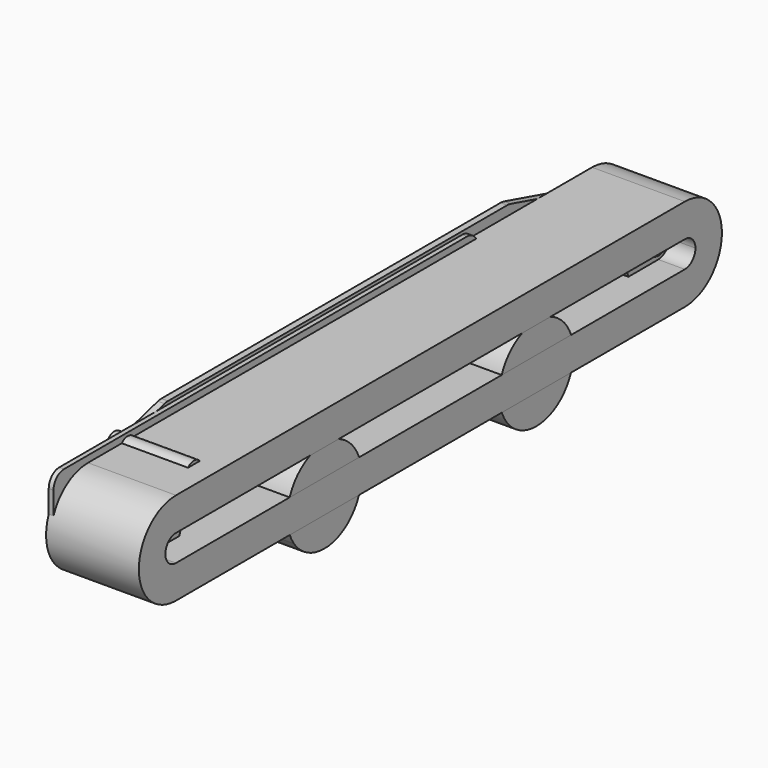
from build123d import *

# Parameters (mm, degrees)
F0_R           = 19.05
F0_R_2         = 6.35
F1_DEPTH       = 31.75
F2_START       = 12.7
F2_DEPTH       = 15.875
F3_R           = 4.7625
F3_R_2         = 2.6162
F4_DEPTH       = 3.175
F5_DEPTH       = 44.45
F7_DEPTH       = 44.45
F8_R           = 2.286
F8_R_2         = 2.032
F8_R_3         = 4.7625
F9_DEPTH       = 2.286
F10_R          = 4.7625
F10_R_2        = 2.286
F11_DEPTH      = 31.75
F10_R_3        = 2.032
F12_DEPTH      = 38.1
F12_DEPTH_BACK = 2.286
F13_START      = -2.286
F13_DEPTH      = 4.064
F14_R          = 4.8895
F15_DEPTH      = 12.7
F16_R          = 4.7625
F16_R_2        = 2.1082
F17_DEPTH      = 12.7
F18_R          = 4.826
F18_R_2        = 4.699
F18_R_3        = 2.413
F19_DEPTH      = 12.7
F20_DEPTH      = 12.7


with BuildPart() as f1:
    # F0 (on Right) → F1 (new body)
    with BuildSketch(Plane.YZ):
        Circle(F0_R)
        Circle(F0_R_2, mode=Mode.SUBTRACT)
        Circle(F0_R_2)
    extrude(amount=F1_DEPTH)


with BuildPart() as f1b:
    # F0 (on Right) → F1, piece 2 (new body)
    with BuildSketch(Plane.YZ):
        with Locations((304.8, 0)):
            Circle(F0_R)
        with Locations((304.8, 0)):
            Circle(F0_R_2, mode=Mode.SUBTRACT)
        with Locations((304.8, 0)):
            Circle(F0_R_2)
    extrude(amount=F1_DEPTH)


with BuildPart() as f2_tool:
    # F0 (on Right) → F2 (new body)
    with BuildSketch(Plane.YZ.offset(F2_START)):
        Circle(F0_R)
        Circle(F0_R_2, mode=Mode.SUBTRACT)
        with Locations((304.8, 0)):
            Circle(F0_R)
        with Locations((304.8, 0)):
            Circle(F0_R_2, mode=Mode.SUBTRACT)
    extrude(amount=F2_DEPTH)


with BuildPart() as f1_1:
    add(f1.part)

    # F2: cut by f2_tool
    add(f2_tool.part, mode=Mode.SUBTRACT)

    # F14 (on face) → F15 (cut)
    with BuildSketch(Plane.YZ.offset(31.75)):
        Circle(F14_R)
    extrude(amount=-F15_DEPTH, mode=Mode.SUBTRACT)

    # F16 (on face) → F17 (join)
    with BuildSketch(Plane.YZ.offset(19.05)):
        Circle(F16_R)
        Circle(F16_R_2, mode=Mode.SUBTRACT)
    extrude(amount=F17_DEPTH)


with BuildPart() as f1b_1:
    add(f1b.part)

    # F2: cut by f2_tool
    add(f2_tool.part, mode=Mode.SUBTRACT)

    # F18 (on face) → F19 (cut)
    with BuildSketch(Plane.YZ.offset(31.75)):
        with Locations((304.8, 0)):
            Circle(F18_R)
        with Locations((304.8, 0)):
            Circle(F18_R_2, mode=Mode.SUBTRACT)
        with Locations((304.8, 0)):
            Circle(F18_R_2)
        with Locations((304.8, 0)):
            Circle(F18_R_3, mode=Mode.SUBTRACT)
        with Locations((304.8, 0)):
            Circle(F18_R_3)
    extrude(amount=-F19_DEPTH, mode=Mode.SUBTRACT)


with BuildPart() as f4:
    # F3 (on Right) → F4 (new body)
    with BuildSketch(Plane.YZ):
        with BuildLine():
            ThreePointArc((-3.3780835942, -12.2424895847), (7.6937747027, -10.1042481573), (12.7, 0))
            ThreePointArc((12.7, 0), (7.6937747027, 10.1042481573), (-3.3780835942, 12.2424895847))
            ThreePointArc((-3.3780835942, 12.2424895847), (-12.7, 0), (-3.3780835942, -12.2424895847))
        make_face()
        Circle(F3_R, mode=Mode.SUBTRACT)
        with BuildLine():
            ThreePointArc((-3.3780835942, 12.2424895847), (7.6937747027, 10.1042481573), (12.7, 0))
            ThreePointArc((12.7, 0), (7.6937747027, -10.1042481573), (-3.3780835942, -12.2424895847))
            Line((-3.3780835942, -12.2424895847), (48.7123443388, -26.6158585633))
            ThreePointArc((48.7123443388, -26.6158585633), (46.0452472337, -12.8055746388), (58.6486, -19.05))
            ThreePointArc((58.6486, -19.05), (56.3497982828, -24.5997982828), (50.8, -26.8986))
            Line((50.8, -26.8986), (70.6610135972, -26.8986))
            ThreePointArc((70.6610135972, -26.8986), (82.2445829508, 7.0064948807), (111.125, -14.1986))
            ThreePointArc((111.125, -14.1986), (110.7293167176, -18.3737115723), (109.5563559828, -22.4001597609))
            Line((109.5563559828, -22.4001597609), (149.5011387685, -13.0352677522))
            ThreePointArc((149.5011387685, -13.0352677522), (152.4, -12.7), (155.2988612315, -13.0352677522))
            Line((155.2988612315, -13.0352677522), (195.2436440172, -22.4001597609))
            ThreePointArc((195.2436440172, -22.4001597609), (211.7248884277, 7.6307167176), (238.125, -14.1986))
            ThreePointArc((238.125, -14.1986), (237.1050948807, -20.8540170492), (234.1389864028, -26.8986))
            Line((234.1389864028, -26.8986), (254, -26.8986))
            ThreePointArc((254, -26.8986), (248.4502017172, -13.5002017172), (261.8486, -19.05))
            ThreePointArc((261.8486, -19.05), (260.2444253612, -23.8047527663), (256.0876556612, -26.6158585633))
            Line((256.0876556612, -26.6158585633), (308.1780835942, -12.2424895847))
            ThreePointArc((308.1780835942, -12.2424895847), (292.1, 0), (308.1780835942, 12.2424895847))
            Line((308.1780835942, 12.2424895847), (256.0876556612, 26.6158585633))
            ThreePointArc((256.0876556612, 26.6158585633), (260.2444253612, 23.8047527663), (261.8486, 19.05))
            ThreePointArc((261.8486, 19.05), (248.4502017172, 13.5002017172), (254, 26.8986))
            Line((254, 26.8986), (50.8, 26.8986))
            ThreePointArc((50.8, 26.8986), (56.3497982828, 24.5997982828), (58.6486, 19.05))
            ThreePointArc((58.6486, 19.05), (46.0452472337, 12.8055746388), (48.7123443388, 26.6158585633))
            Line((48.7123443388, 26.6158585633), (-3.3780835942, 12.2424895847))
        make_face()
        with BuildLine():
            ThreePointArc((-3.3780835942, 12.2424895847), (7.6937747027, 10.1042481573), (12.7, 0))
            ThreePointArc((12.7, 0), (7.6937747027, -10.1042481573), (-3.3780835942, -12.2424895847))
            Line((-3.3780835942, -12.2424895847), (48.7123443388, -26.6158585633))
            ThreePointArc((48.7123443388, -26.6158585633), (46.0452472337, -12.8055746388), (58.6486, -19.05))
            ThreePointArc((58.6486, -19.05), (56.3497982828, -24.5997982828), (50.8, -26.8986))
            Line((50.8, -26.8986), (70.6610135972, -26.8986))
            ThreePointArc((70.6610135972, -26.8986), (82.2445829508, 7.0064948807), (111.125, -14.1986))
            ThreePointArc((111.125, -14.1986), (110.7293167176, -18.3737115723), (109.5563559828, -22.4001597609))
            Line((109.5563559828, -22.4001597609), (149.5011387685, -13.0352677522))
            ThreePointArc((149.5011387685, -13.0352677522), (152.4, -12.7), (155.2988612315, -13.0352677522))
            Line((155.2988612315, -13.0352677522), (195.2436440172, -22.4001597609))
            ThreePointArc((195.2436440172, -22.4001597609), (211.7248884277, 7.6307167176), (238.125, -14.1986))
            ThreePointArc((238.125, -14.1986), (237.1050948807, -20.8540170492), (234.1389864028, -26.8986))
            Line((234.1389864028, -26.8986), (254, -26.8986))
            ThreePointArc((254, -26.8986), (248.4502017172, -13.5002017172), (261.8486, -19.05))
            ThreePointArc((261.8486, -19.05), (260.2444253612, -23.8047527663), (256.0876556612, -26.6158585633))
            Line((256.0876556612, -26.6158585633), (308.1780835942, -12.2424895847))
            ThreePointArc((308.1780835942, -12.2424895847), (292.1, 0), (308.1780835942, 12.2424895847))
            Line((308.1780835942, 12.2424895847), (256.0876556612, 26.6158585633))
            ThreePointArc((256.0876556612, 26.6158585633), (260.2444253612, 23.8047527663), (261.8486, 19.05))
            ThreePointArc((261.8486, 19.05), (248.4502017172, 13.5002017172), (254, 26.8986))
            Line((254, 26.8986), (50.8, 26.8986))
            ThreePointArc((50.8, 26.8986), (56.3497982828, 24.5997982828), (58.6486, 19.05))
            ThreePointArc((58.6486, 19.05), (46.0452472337, 12.8055746388), (48.7123443388, 26.6158585633))
            Line((48.7123443388, 26.6158585633), (-3.3780835942, 12.2424895847))
        make_face()
        with BuildLine():
            ThreePointArc((317.5, 0), (314.9042481573, 7.6937747027), (308.1780835942, 12.2424895847))
            ThreePointArc((308.1780835942, 12.2424895847), (292.1, 0), (308.1780835942, -12.2424895847))
            ThreePointArc((308.1780835942, -12.2424895847), (314.9042481573, -7.6937747027), (317.5, 0))
        make_face()
        with Locations((304.8, 0)):
            Circle(F3_R, mode=Mode.SUBTRACT)
        with BuildLine():
            ThreePointArc((-3.3780835942, 12.2424895847), (7.6937747027, 10.1042481573), (12.7, 0))
            ThreePointArc((12.7, 0), (7.6937747027, -10.1042481573), (-3.3780835942, -12.2424895847))
            Line((-3.3780835942, -12.2424895847), (48.7123443388, -26.6158585633))
            ThreePointArc((48.7123443388, -26.6158585633), (46.0452472337, -12.8055746388), (58.6486, -19.05))
            ThreePointArc((58.6486, -19.05), (56.3497982828, -24.5997982828), (50.8, -26.8986))
            Line((50.8, -26.8986), (70.6610135972, -26.8986))
            ThreePointArc((70.6610135972, -26.8986), (82.2445829508, 7.0064948807), (111.125, -14.1986))
            ThreePointArc((111.125, -14.1986), (110.7293167176, -18.3737115723), (109.5563559828, -22.4001597609))
            Line((109.5563559828, -22.4001597609), (149.5011387685, -13.0352677522))
            ThreePointArc((149.5011387685, -13.0352677522), (152.4, -12.7), (155.2988612315, -13.0352677522))
            Line((155.2988612315, -13.0352677522), (195.2436440172, -22.4001597609))
            ThreePointArc((195.2436440172, -22.4001597609), (211.7248884277, 7.6307167176), (238.125, -14.1986))
            ThreePointArc((238.125, -14.1986), (237.1050948807, -20.8540170492), (234.1389864028, -26.8986))
            Line((234.1389864028, -26.8986), (254, -26.8986))
            ThreePointArc((254, -26.8986), (248.4502017172, -13.5002017172), (261.8486, -19.05))
            ThreePointArc((261.8486, -19.05), (260.2444253612, -23.8047527663), (256.0876556612, -26.6158585633))
            Line((256.0876556612, -26.6158585633), (308.1780835942, -12.2424895847))
            ThreePointArc((308.1780835942, -12.2424895847), (292.1, 0), (308.1780835942, 12.2424895847))
            Line((308.1780835942, 12.2424895847), (256.0876556612, 26.6158585633))
            ThreePointArc((256.0876556612, 26.6158585633), (260.2444253612, 23.8047527663), (261.8486, 19.05))
            ThreePointArc((261.8486, 19.05), (248.4502017172, 13.5002017172), (254, 26.8986))
            Line((254, 26.8986), (50.8, 26.8986))
            ThreePointArc((50.8, 26.8986), (56.3497982828, 24.5997982828), (58.6486, 19.05))
            ThreePointArc((58.6486, 19.05), (46.0452472337, 12.8055746388), (48.7123443388, 26.6158585633))
            Line((48.7123443388, 26.6158585633), (-3.3780835942, 12.2424895847))
        make_face()
        with BuildLine():
            ThreePointArc((-3.3780835942, 12.2424895847), (7.6937747027, 10.1042481573), (12.7, 0))
            ThreePointArc((12.7, 0), (7.6937747027, -10.1042481573), (-3.3780835942, -12.2424895847))
            Line((-3.3780835942, -12.2424895847), (48.7123443388, -26.6158585633))
            ThreePointArc((48.7123443388, -26.6158585633), (46.0452472337, -12.8055746388), (58.6486, -19.05))
            ThreePointArc((58.6486, -19.05), (56.3497982828, -24.5997982828), (50.8, -26.8986))
            Line((50.8, -26.8986), (70.6610135972, -26.8986))
            ThreePointArc((70.6610135972, -26.8986), (82.2445829508, 7.0064948807), (111.125, -14.1986))
            ThreePointArc((111.125, -14.1986), (110.7293167176, -18.3737115723), (109.5563559828, -22.4001597609))
            Line((109.5563559828, -22.4001597609), (149.5011387685, -13.0352677522))
            ThreePointArc((149.5011387685, -13.0352677522), (152.4, -12.7), (155.2988612315, -13.0352677522))
            Line((155.2988612315, -13.0352677522), (195.2436440172, -22.4001597609))
            ThreePointArc((195.2436440172, -22.4001597609), (211.7248884277, 7.6307167176), (238.125, -14.1986))
            ThreePointArc((238.125, -14.1986), (237.1050948807, -20.8540170492), (234.1389864028, -26.8986))
            Line((234.1389864028, -26.8986), (254, -26.8986))
            ThreePointArc((254, -26.8986), (248.4502017172, -13.5002017172), (261.8486, -19.05))
            ThreePointArc((261.8486, -19.05), (260.2444253612, -23.8047527663), (256.0876556612, -26.6158585633))
            Line((256.0876556612, -26.6158585633), (308.1780835942, -12.2424895847))
            ThreePointArc((308.1780835942, -12.2424895847), (292.1, 0), (308.1780835942, 12.2424895847))
            Line((308.1780835942, 12.2424895847), (256.0876556612, 26.6158585633))
            ThreePointArc((256.0876556612, 26.6158585633), (260.2444253612, 23.8047527663), (261.8486, 19.05))
            ThreePointArc((261.8486, 19.05), (248.4502017172, 13.5002017172), (254, 26.8986))
            Line((254, 26.8986), (50.8, 26.8986))
            ThreePointArc((50.8, 26.8986), (56.3497982828, 24.5997982828), (58.6486, 19.05))
            ThreePointArc((58.6486, 19.05), (46.0452472337, 12.8055746388), (48.7123443388, 26.6158585633))
            Line((48.7123443388, 26.6158585633), (-3.3780835942, 12.2424895847))
        make_face()
        with BuildLine():
            ThreePointArc((50.8, 26.8986), (49.7466424064, 26.8275934414), (48.7123443388, 26.6158585633))
            ThreePointArc((48.7123443388, 26.6158585633), (46.0452472337, 12.8055746388), (58.6486, 19.05))
            ThreePointArc((58.6486, 19.05), (56.3497982828, 24.5997982828), (50.8, 26.8986))
        make_face()
        with Locations((50.8, 19.05)):
            Circle(F3_R_2, mode=Mode.SUBTRACT)
        with BuildLine():
            ThreePointArc((58.6486, -19.05), (46.0452472337, -12.8055746388), (48.7123443388, -26.6158585633))
            ThreePointArc((48.7123443388, -26.6158585633), (49.7466424064, -26.8275934414), (50.8, -26.8986))
            ThreePointArc((50.8, -26.8986), (56.3497982828, -24.5997982828), (58.6486, -19.05))
        make_face()
        with Locations((50.8, -19.05)):
            Circle(F3_R_2, mode=Mode.SUBTRACT)
        with BuildLine():
            ThreePointArc((101.6, -14.1986), (79.9197438789, -5.2183438789), (88.9, -26.8986))
            ThreePointArc((88.9, -26.8986), (90.3590922611, -26.8145046356), (91.7988612315, -26.5633322478))
            ThreePointArc((91.7988612315, -26.5633322478), (98.8525257508, -22.0876576864), (101.6, -14.1986))
        make_face()
        with Locations((88.9, -14.1986)):
            Circle(F3_R, mode=Mode.SUBTRACT)
        with BuildLine():
            ThreePointArc((111.125, -14.1986), (82.2445829508, 7.0064948807), (70.6610135972, -26.8986))
            Line((70.6610135972, -26.8986), (88.9, -26.8986))
            ThreePointArc((88.9, -26.8986), (79.9197438789, -5.2183438789), (101.6, -14.1986))
            ThreePointArc((101.6, -14.1986), (98.8525257508, -22.0876576864), (91.7988612315, -26.5633322478))
            Line((91.7988612315, -26.5633322478), (109.5563559828, -22.4001597609))
            ThreePointArc((109.5563559828, -22.4001597609), (110.7293167176, -18.3737115723), (111.125, -14.1986))
        make_face()
        with BuildLine():
            ThreePointArc((254, -26.8986), (255.0533575936, -26.8275934414), (256.0876556612, -26.6158585633))
            ThreePointArc((256.0876556612, -26.6158585633), (260.2444253612, -23.8047527663), (261.8486, -19.05))
            ThreePointArc((261.8486, -19.05), (248.4502017172, -13.5002017172), (254, -26.8986))
        make_face()
        with Locations((254, -19.05)):
            Circle(F3_R_2, mode=Mode.SUBTRACT)
        with BuildLine():
            ThreePointArc((256.0876556612, 26.6158585633), (255.0533575936, 26.8275934414), (254, 26.8986))
            ThreePointArc((254, 26.8986), (248.4502017172, 13.5002017172), (261.8486, 19.05))
            ThreePointArc((261.8486, 19.05), (260.2444253612, 23.8047527663), (256.0876556612, 26.6158585633))
        make_face()
        with Locations((254, 19.05)):
            Circle(F3_R_2, mode=Mode.SUBTRACT)
        with BuildLine():
            ThreePointArc((228.6, -14.1986), (208.0109423136, -4.2460742492), (213.0011387685, -26.5633322478))
            ThreePointArc((213.0011387685, -26.5633322478), (214.4409077389, -26.8145046356), (215.9, -26.8986))
            ThreePointArc((215.9, -26.8986), (224.8802561211, -23.1788561211), (228.6, -14.1986))
        make_face()
        with Locations((215.9, -14.1986)):
            Circle(F3_R, mode=Mode.SUBTRACT)
        with BuildLine():
            ThreePointArc((238.125, -14.1986), (211.7248884277, 7.6307167176), (195.2436440172, -22.4001597609))
            Line((195.2436440172, -22.4001597609), (213.0011387685, -26.5633322478))
            ThreePointArc((213.0011387685, -26.5633322478), (208.0109423136, -4.2460742492), (228.6, -14.1986))
            ThreePointArc((228.6, -14.1986), (224.8802561211, -23.1788561211), (215.9, -26.8986))
            Line((215.9, -26.8986), (234.1389864028, -26.8986))
            ThreePointArc((234.1389864028, -26.8986), (237.1050948807, -20.8540170492), (238.125, -14.1986))
        make_face()
    extrude(amount=-F4_DEPTH)


with BuildPart() as f5:
    # F3 (on Right) → F5 (new body)
    with BuildSketch(Plane.YZ):
        with BuildLine():
            Line((88.9, -26.8986), (70.6610135972, -26.8986))
            ThreePointArc((70.6610135972, -26.8986), (91.4534114568, -36.2764331122), (109.5563559828, -22.4001597609))
            Line((109.5563559828, -22.4001597609), (91.7988612315, -26.5633322478))
            ThreePointArc((91.7988612315, -26.5633322478), (90.3590922611, -26.8145046356), (88.9, -26.8986))
        make_face()
        with BuildLine():
            ThreePointArc((111.125, -14.1986), (82.2445829508, 7.0064948807), (70.6610135972, -26.8986))
            Line((70.6610135972, -26.8986), (88.9, -26.8986))
            ThreePointArc((88.9, -26.8986), (79.9197438789, -5.2183438789), (101.6, -14.1986))
            ThreePointArc((101.6, -14.1986), (98.8525257508, -22.0876576864), (91.7988612315, -26.5633322478))
            Line((91.7988612315, -26.5633322478), (109.5563559828, -22.4001597609))
            ThreePointArc((109.5563559828, -22.4001597609), (110.7293167176, -18.3737115723), (111.125, -14.1986))
        make_face()
        with BuildLine():
            ThreePointArc((101.6, -14.1986), (79.9197438789, -5.2183438789), (88.9, -26.8986))
            ThreePointArc((88.9, -26.8986), (90.3590922611, -26.8145046356), (91.7988612315, -26.5633322478))
            ThreePointArc((91.7988612315, -26.5633322478), (98.8525257508, -22.0876576864), (101.6, -14.1986))
        make_face()
        with Locations((88.9, -14.1986)):
            Circle(F3_R, mode=Mode.SUBTRACT)
    extrude(amount=F5_DEPTH)


with BuildPart() as f5b:
    # F3 (on Right) → F5, piece 2 (new body)
    with BuildSketch(Plane.YZ):
        with BuildLine():
            ThreePointArc((238.125, -14.1986), (211.7248884277, 7.6307167176), (195.2436440172, -22.4001597609))
            Line((195.2436440172, -22.4001597609), (213.0011387685, -26.5633322478))
            ThreePointArc((213.0011387685, -26.5633322478), (208.0109423136, -4.2460742492), (228.6, -14.1986))
            ThreePointArc((228.6, -14.1986), (224.8802561211, -23.1788561211), (215.9, -26.8986))
            Line((215.9, -26.8986), (234.1389864028, -26.8986))
            ThreePointArc((234.1389864028, -26.8986), (237.1050948807, -20.8540170492), (238.125, -14.1986))
        make_face()
        with BuildLine():
            ThreePointArc((228.6, -14.1986), (208.0109423136, -4.2460742492), (213.0011387685, -26.5633322478))
            ThreePointArc((213.0011387685, -26.5633322478), (214.4409077389, -26.8145046356), (215.9, -26.8986))
            ThreePointArc((215.9, -26.8986), (224.8802561211, -23.1788561211), (228.6, -14.1986))
        make_face()
        with Locations((215.9, -14.1986)):
            Circle(F3_R, mode=Mode.SUBTRACT)
        with BuildLine():
            Line((213.0011387685, -26.5633322478), (195.2436440172, -22.4001597609))
            ThreePointArc((195.2436440172, -22.4001597609), (213.3465885432, -36.2764331122), (234.1389864028, -26.8986))
            Line((234.1389864028, -26.8986), (215.9, -26.8986))
            ThreePointArc((215.9, -26.8986), (214.4409077389, -26.8145046356), (213.0011387685, -26.5633322478))
        make_face()
    extrude(amount=F5_DEPTH)


with BuildPart() as f7:
    # F6 (on Right) → F7 (new body)
    with BuildSketch(Plane.YZ):
        with BuildLine():
            ThreePointArc((0, 22.225), (13.2819779212, 17.8196433045), (21.2985474857, 6.35))
            Line((21.2985474857, 6.35), (283.5014525143, 6.35))
            ThreePointArc((283.5014525143, 6.35), (291.5180220788, 17.8196433045), (304.8, 22.225))
            Line((304.8, 22.225), (0, 22.225))
        make_face()
        with BuildLine():
            ThreePointArc((0, -6.35), (-6.35, 0), (0, 6.35))
            Line((0, 6.35), (21.2985474857, 6.35))
            ThreePointArc((21.2985474857, 6.35), (13.2819779212, 17.8196433045), (0, 22.225))
            ThreePointArc((0, 22.225), (-22.225, 0), (0, -22.225))
            ThreePointArc((0, -22.225), (13.2819779212, -17.8196433045), (21.2985474857, -6.35))
            Line((21.2985474857, -6.35), (0, -6.35))
        make_face()
        with BuildLine():
            Line((283.5014525143, -6.35), (21.2985474857, -6.35))
            ThreePointArc((21.2985474857, -6.35), (13.2819779212, -17.8196433045), (0, -22.225))
            Line((0, -22.225), (304.8, -22.225))
            ThreePointArc((304.8, -22.225), (291.5180220788, -17.8196433045), (283.5014525143, -6.35))
        make_face()
        with BuildLine():
            ThreePointArc((304.8, 22.225), (291.5180220788, 17.8196433045), (283.5014525143, 6.35))
            Line((283.5014525143, 6.35), (304.8, 6.35))
            ThreePointArc((304.8, 6.35), (309.2901280605, 4.4901280605), (311.15, 0))
            ThreePointArc((311.15, 0), (309.2901280605, -4.4901280605), (304.8, -6.35))
            Line((304.8, -6.35), (283.5014525143, -6.35))
            ThreePointArc((283.5014525143, -6.35), (291.5180220788, -17.8196433045), (304.8, -22.225))
            ThreePointArc((304.8, -22.225), (320.5154482119, -15.7154482119), (327.025, 0))
            ThreePointArc((327.025, 0), (320.5154482119, 15.7154482119), (304.8, 22.225))
        make_face()
    extrude(amount=F7_DEPTH)


with BuildPart() as f9:
    # F8 (on Right) → F9 (new body)
    with BuildSketch(Plane.YZ):
        with BuildLine():
            Line((227.0125, 25.4), (-14.2875, 25.4))
            ThreePointArc((-14.2875, 25.4), (-18.7776280605, 23.5401280605), (-20.6375, 19.05))
            Line((-20.6375, 19.05), (-20.6375, 6.35))
            ThreePointArc((-20.6375, 6.35), (-18.7776280605, 1.8598719395), (-14.2875, 0))
            Line((-14.2875, 0), (227.0125, 0))
            ThreePointArc((227.0125, 0), (231.5026280605, 1.8598719395), (233.3625, 6.35))
            Line((233.3625, 6.35), (233.3625, 19.05))
            ThreePointArc((233.3625, 19.05), (231.5026280605, 23.5401280605), (227.0125, 25.4))
        make_face()
        with Locations((23.8125, 6.35)):
            Circle(F8_R, mode=Mode.SUBTRACT)
        with Locations((106.3625, 6.35)):
            Circle(F8_R, mode=Mode.SUBTRACT)
        with Locations((188.9125, 6.35)):
            Circle(F8_R, mode=Mode.SUBTRACT)
        with Locations((-15.875, 12.7)):
            Circle(F8_R_2, mode=Mode.SUBTRACT)
        with Locations((-7.9375, 12.7)):
            Circle(F8_R_3, mode=Mode.SUBTRACT)
        with Locations((0, 12.7)):
            Circle(F8_R_2, mode=Mode.SUBTRACT)
        with Locations((55.5625, 12.7)):
            Circle(F8_R, mode=Mode.SUBTRACT)
        with Locations((23.8125, 19.05)):
            Circle(F8_R, mode=Mode.SUBTRACT)
        with Locations((157.1625, 12.7)):
            Circle(F8_R, mode=Mode.SUBTRACT)
        with Locations((220.6625, 12.7)):
            Circle(F8_R, mode=Mode.SUBTRACT)
        with Locations((106.3625, 19.05)):
            Circle(F8_R, mode=Mode.SUBTRACT)
        with Locations((188.9125, 19.05)):
            Circle(F8_R, mode=Mode.SUBTRACT)
    extrude(amount=F9_DEPTH)


with BuildPart() as f11:
    # F10 (on face) → F11 (new body)
    with BuildSketch(Plane.YZ.offset(2.286)):
        with Locations((23.8125, 19.05)):
            Circle(F10_R)
        with Locations((23.8125, 19.05)):
            Circle(F10_R_2, mode=Mode.SUBTRACT)
    extrude(amount=F11_DEPTH)


with BuildPart() as f12:
    # F10 (on face) → F12 (new body, two sides)
    with BuildSketch(Plane.YZ.offset(2.286)) as f12_sk:
        with Locations((23.8125, 19.05)):
            Circle(F10_R_3)
    extrude(amount=F12_DEPTH)
    extrude(f12_sk.sketch, amount=-F12_DEPTH_BACK)

    # F10 (on face) → F13 (join)
    with BuildSketch(Plane.YZ.offset(2.286).offset(F13_START)):
        with Locations((23.8125, 19.05)):
            Circle(F10_R)
        with Locations((23.8125, 19.05)):
            Circle(F10_R_2, mode=Mode.SUBTRACT)
        with Locations((23.8125, 19.05)):
            Circle(F10_R_2)
        with Locations((23.8125, 19.05)):
            Circle(F10_R_3, mode=Mode.SUBTRACT)
        with Locations((23.8125, 19.05)):
            Circle(F10_R_3)
    extrude(amount=-F13_DEPTH)


with BuildPart() as f20:
    # F18 (on face) → F20 (new body)
    with BuildSketch(Plane.YZ.offset(31.75)):
        with Locations((304.8, 0)):
            Circle(F18_R_2)
        with Locations((304.8, 0)):
            Circle(F18_R_3, mode=Mode.SUBTRACT)
    extrude(amount=-F20_DEPTH)


solid = Compound([f1_1.part, f1b_1.part, f4.part, f5.part, f5b.part, f7.part, f9.part, f11.part, f12.part, f20.part])
